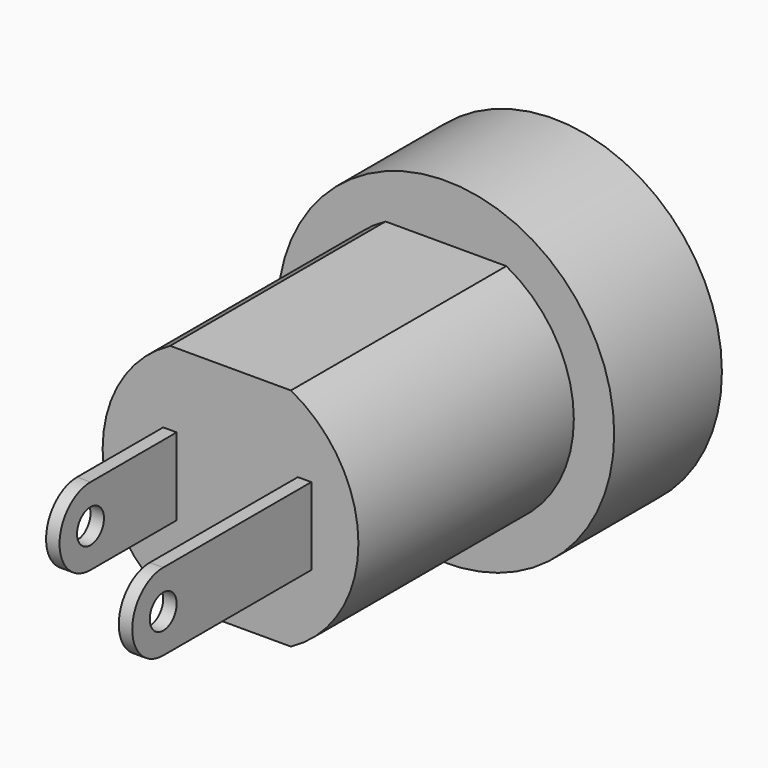
from build123d import *

# Parameters (mm, degrees)
SKETCH002_R            = 5
PAD002_DEPTH           = 4
PAD003_DEPTH           = 8
SKETCH005_R            = 0.5
PAD005_DEPTH           = 0.4
SKETCH004_R            = 0.5
PAD004_DEPTH           = 0.4
FUSION_PLACEMENT_ANGLE = 90


with BuildPart() as body001:
    # Sketch002 → Pad002 (new body)
    with BuildSketch(Plane.XY):
        Circle(SKETCH002_R)
    extrude(amount=PAD002_DEPTH)

    # Sketch003 (on Face3 of Pad002) → Pad003 (join)
    with BuildSketch(Plane.XY.offset(4)):
        with BuildLine():
            ThreePointArc((-1.793739, 3.35), (-3.8, 0), (-1.793739, -3.35))
            Line((-1.793739, -3.35), (1.793739, -3.35))
            ThreePointArc((1.793739, -3.35), (3.8, 0), (1.793739, 3.35))
            Line((-1.793739, 3.35), (1.793739, 3.35))
        make_face()
    extrude(amount=PAD003_DEPTH)


with BuildPart() as body003:
    # Sketch005 → Pad005 (new body)
    with BuildSketch(Plane.YZ):
        with BuildLine():
            Line((-1.15, 15.2), (-1.15, 12))
            Line((-1.15, 12), (1.15, 12))
            Line((1.15, 12), (1.15, 15.2))
            ThreePointArc((1.15, 15.2), (0, 16.35), (-1.15, 15.2))
        make_face()
        with Locations((0, 15.2)):
            Circle(SKETCH005_R, mode=Mode.SUBTRACT)
    extrude(amount=PAD005_DEPTH)


with BuildPart() as body003_1:
    # Body003 placement: moved
    add(body003.part.moved(Location((-2, 0, 0))))


with BuildPart() as power:
    # Sketch004 → Pad004 (new body)
    with BuildSketch(Plane.YZ):
        with BuildLine():
            Line((-1.15, 17.5), (-1.15, 12))
            Line((-1.15, 12), (1.15, 12))
            Line((1.15, 12), (1.15, 17.5))
            ThreePointArc((1.15, 17.5), (0, 18.65), (-1.15, 17.5))
        make_face()
        with Locations((0, 17.5)):
            Circle(SKETCH004_R, mode=Mode.SUBTRACT)
    extrude(amount=PAD004_DEPTH)


with BuildPart() as power_1:
    # Body002 placement: moved
    add(power.part.moved(Location((2, 0, 0))))

    # Fusion: union Body001, Body003
    add(body001.part)
    add(body003_1.part)


with BuildPart() as power_2:
    # Fusion placement: moved
    add(power_1.part.moved(Location((0, 90, 8))).rotate(Axis((0, 90, 8), (1, 0, 0)), FUSION_PLACEMENT_ANGLE))


solid = power_2.part
